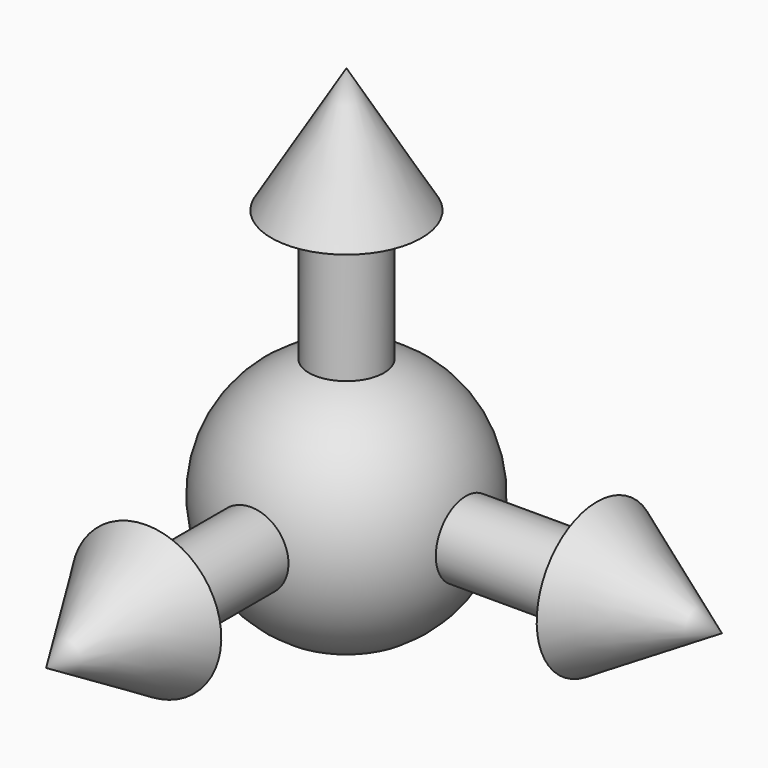
from build123d import *

# Parameters (mm, degrees)
F4_COUNT = 2
F4_ANGLE = 90
F6_COUNT = 2
F6_ANGLE = 90


with BuildPart() as f1:
    # F0 (on Front) → F1 (revolve)
    with BuildSketch(Plane.XZ):
        with BuildLine():
            Line((0, -50), (0, 50))
            ThreePointArc((0, 50), (-50, 0), (0, -50))
        make_face()
    revolve(axis=Axis((0, 0, 0), (0, 0, -1)))


with BuildPart() as f3:
    # F2 (on Front) → F3 (revolve)
    with BuildSketch(Plane.XZ):
        with BuildLine():
            Line((100, 15), (47.69696, 15))
            ThreePointArc((47.69696, 15), (49.420886, 7.587885), (50, 0))
            Line((50, 0), (150, 0))
            Line((150, 0), (100, 30))
            Line((100, 30), (100, 15))
        make_face()
    revolve(axis=Axis((100, 0, 0), (-1, 0, 0)))


with BuildPart() as f4_1:
    # F4: instance of F3
    add(f3.part.rotate(Axis((0, 0, 0), (0, 0, -1)), 1 * F4_ANGLE / (F4_COUNT - 1)))


with BuildPart() as f6_1:
    # F6: instance of F4_1
    add(f4_1.part.rotate(Axis((0.169491, 0, 0), (-1, 0, 0)), 1 * F6_ANGLE / (F6_COUNT - 1)))


solid = Compound([f1.part, f3.part, f4_1.part, f6_1.part])
